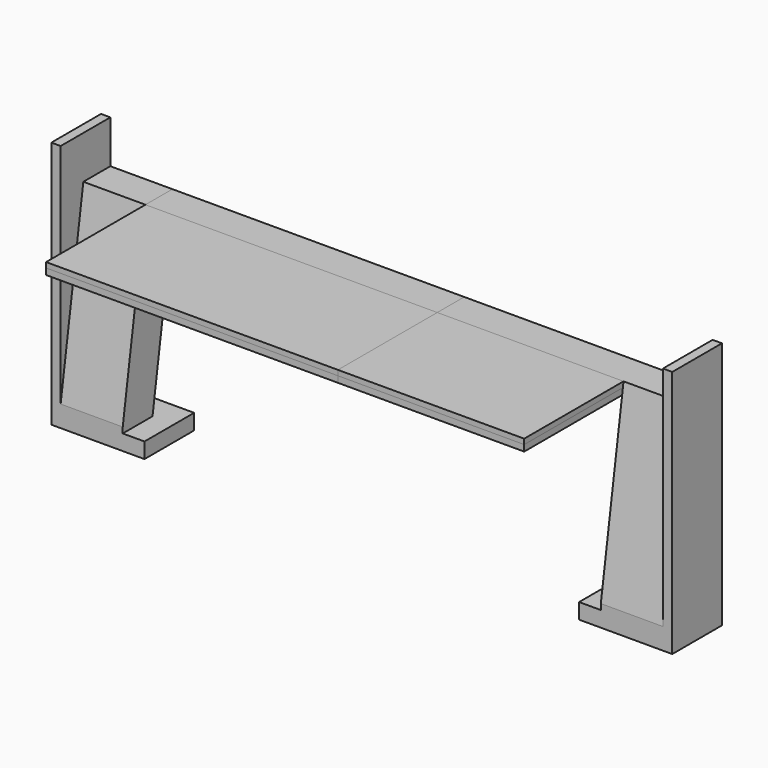
from build123d import *

# Parameters (mm, degrees)
F1_DEPTH  = 6.35
F2_DEPTH  = 6.35
F3_DEPTH  = 25.4
F4_DEPTH  = 25.4
F6_DEPTH  = 25.4
F8_DEPTH  = 25.4
F10_W     = 25.4
F10_H     = 15.419832
F11_DEPTH = 76.2
F9_W      = 25.4
F9_H      = 15.4198326926
F12_DEPTH = 76.2
F14_DEPTH = 76.2
F16_DEPTH = 76.2
F18_DEPTH = 25.4
F20_W     = 13.7963745518
F20_H     = 2.1256824252
F21_DEPTH = 76.2
F22_DEPTH = 25.4
F23_W     = 13.7963525968
F23_H     = 2.12568316
F24_DEPTH = 119.38
F25_DEPTH = 50.8
F26_DEPTH = 50.8
F27_DEPTH = 2.54
F28_DEPTH = 2.54


with BuildPart() as f1:
    # F0 (on Top) → F1 (new body)
    with BuildSketch(Plane.XY):
        Polygon((-144.2275191965, 0), (-148.0375191965, 0), (-148.0375191965, -25.4), (-144.2275191965, -25.4), (-144.2275191965, -12.7), align=None)
        Polygon((-109.9375191965, 0), (-144.2275191965, 0), (-144.2275191965, -12.7), (-144.2275191965, -25.4), (-109.9375191965, -25.4), align=None)
    extrude(amount=F1_DEPTH)

    # F0 (on Top) → F3 (join)
    with BuildSketch(Plane.XY):
        Polygon((-144.2275191965, 0), (-148.0375191965, 0), (-148.0375191965, -25.4), (-144.2275191965, -25.4), (-144.2275191965, -12.7), align=None)
    extrude(amount=F3_DEPTH)

    # F5 (on face) → F6 (join)
    with BuildSketch(Plane.YZ.offset(-144.2275191965)):
        Polygon((-20.32, 6.35), (-10.16, 6.35), (-25.4, 8.698114194), (-25.4, 6.35), align=None)
    extrude(amount=F6_DEPTH)

    # F9 (on face) → F12 (join)
    with BuildSketch(Plane(origin=(0, 0.7200947335, 4.6736414124), x_dir=(1, 0, 0), z_dir=(0, 0.1522788373, 0.9883375717))):
        with Locations((-131.5275191965, -18.7183966921)):
            Rectangle(F9_W, F9_H)
    extrude(amount=F12_DEPTH)

    # F15 (on face) → F16 (join)
    with BuildSketch(Plane.XY.offset(25.4)):
        Polygon((-144.2275191965, -7.2248572575), (-144.2275191965, 0), (-148.0375191965, 0), (-148.0375191965, -25.4), (-144.2275191965, -25.4), (-144.2275191965, -22.8266446767), align=None)
    extrude(amount=F16_DEPTH)

    # F19 (on face) → F22 (join)
    with BuildSketch(Plane.YZ.offset(-144.2275191965)):
        Polygon((0, 81.8837540004), (0, 84.0094371603), (-13.7963525968, 84.0094371603), align=None)
    extrude(amount=F22_DEPTH)


with BuildPart() as f2:
    # F0 (on Top) → F2 (new body)
    with BuildSketch(Plane.XY):
        Polygon((67.8624808035, 0), (67.8624808035, -25.4), (102.1524808035, -25.4), (102.1524808035, -18.4480734169), (102.1524808035, 0), align=None)
        Polygon((102.1524808035, -18.4480734169), (102.1524808035, -25.4), (105.9624808035, -25.4), (105.9624808035, 0), (102.1524808035, 0), align=None)
    extrude(amount=F2_DEPTH)

    # F0 (on Top) → F4 (join)
    with BuildSketch(Plane.XY):
        Polygon((102.1524808035, -18.4480734169), (102.1524808035, -25.4), (105.9624808035, -25.4), (105.9624808035, 0), (102.1524808035, 0), align=None)
    extrude(amount=F4_DEPTH)

    # F7 (on face) → F8 (join)
    with BuildSketch(Plane(origin=(102.1524808035, 0, 0), x_dir=(0, -1, 0), z_dir=(-1, 0, 0))):
        Polygon((25.4, 8.6981096457), (10.16, 6.35), (25.4, 6.35), align=None)
    extrude(amount=F8_DEPTH)

    # F10 (on face) → F11 (join)
    with BuildSketch(Plane(origin=(0, 0.7200938597, 4.6736447941), x_dir=(1, 0, 0), z_dir=(0, 0.1522785492, 0.9883376161))):
        with Locations((89.4524808035, -18.7183949672)):
            Rectangle(F10_W, F10_H)
    extrude(amount=F11_DEPTH)

    # F13 (on face) → F14 (join)
    with BuildSketch(Plane.XY.offset(25.4)):
        Polygon((102.1524808035, -7.2248629429), (102.1524808035, -22.8266489605), (102.1524808035, -25.4), (105.9624808035, -25.4), (105.9624808035, 0), (102.1524808035, 0), align=None)
    extrude(amount=F14_DEPTH)

    # F17 (on face) → F18 (join)
    with BuildSketch(Plane(origin=(102.1524808035, 0, 0), x_dir=(0, -1, 0), z_dir=(-1, 0, 0))):
        Polygon((0, 81.8837535695), (13.7963745518, 84.0094359948), (0, 84.0094359948), align=None)
    extrude(amount=F18_DEPTH)

    # F20 (on face) → F21 (join)
    with BuildSketch(Plane(origin=(76.7524808035, 0, 0), x_dir=(0, -1, 0), z_dir=(-1, 0, 0))):
        with Locations((6.8981872759, 82.9465947822)):
            Rectangle(F20_W, F20_H)
    extrude(amount=F21_DEPTH)


with BuildPart() as f24:
    # F23 (on face) → F24 (new body)
    with BuildSketch(Plane.YZ.offset(-118.8275191965)):
        with Locations((-6.8981762984, 82.9465955804)):
            Rectangle(F23_W, F23_H)
    extrude(amount=F24_DEPTH)


with BuildPart() as f25:
    # F25 (new): a face of the model
    f25_faces = [f24.part.faces().sort_by_distance(p)[0] for p in [
        (-59.1375191965, -13.7963525968, 82.9465955804),
    ]]
    extrude(f25_faces, amount=F25_DEPTH)


with BuildPart() as f26:
    # F26 (new): a face of the model
    f26_faces = [f2.part.faces().sort_by_distance(p)[0] for p in [
        (38.6524808035, -13.7963745518, 82.9465947822),
    ]]
    extrude(f26_faces, amount=F26_DEPTH)


with BuildPart() as f27:
    # F27 (new): a face of the model
    f27_faces = [f26.part.faces().sort_by_distance(p)[0] for p in [
        (38.6524808035, -39.1963745518, 81.8837535695),
    ]]
    extrude(f27_faces, amount=F27_DEPTH)


with BuildPart() as f28:
    # F28 (new): a face of the model
    f28_faces = [f25.part.faces().sort_by_distance(p)[0] for p in [
        (-59.1375191965, -39.1963525968, 81.8837540004),
    ]]
    extrude(f28_faces, amount=F28_DEPTH)


solid = Compound([f1.part, f2.part, f24.part, f25.part, f26.part, f27.part, f28.part])
